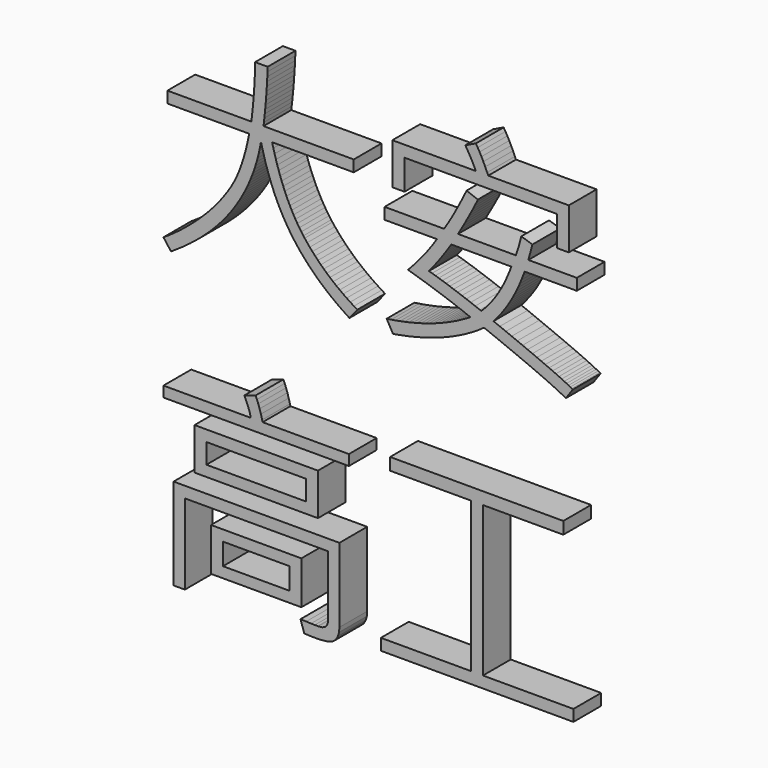
from build123d import *

# Parameters (mm, degrees)
F0_W     = 17.773762
F0_H     = 6.026569
F0_W_2   = 14.310217
F0_H_2   = 2.880515
F0_W_3   = 13.011387
F0_H_3   = 6.199747
F0_W_4   = 9.605567
F0_H_4   = 3.117191
F1_DEPTH = 5


with BuildPart() as f1:
    # F0 (on Front) → F1 (new body)
    with BuildSketch(Plane.XZ):
        Polygon((-17.412976, 25.716827), (-17.48802, 25.353155), (-17.632334, 24.660446), (-17.788194, 23.990827), (-17.949826, 23.344298), (-18.123003, 22.72086), (-18.301953, 22.11474), (-18.492448, 21.537482), (-18.688716, 20.983315), (-18.890756, 20.452238), (-19.110114, 19.938478), (-19.329472, 19.453582), (-19.560375, 18.986003), (-19.802823, 18.541515), (-20.051044, 18.125889), (-20.166495, 17.935394), (-20.478214, 17.456271), (-20.801479, 16.977147), (-21.142061, 16.498023), (-21.494188, 16.030444), (-21.863633, 15.562866), (-22.244623, 15.101059), (-22.637158, 14.645026), (-23.047011, 14.188992), (-23.468409, 13.738731), (-23.907125, 13.294243), (-24.357386, 12.855527), (-24.582516, 12.636169), (-25.03855, 12.214771), (-25.500356, 11.804918), (-25.962162, 11.400838), (-26.423968, 11.014075), (-26.891547, 10.633085), (-27.364898, 10.263641), (-27.838249, 9.905741), (-28.3116, 9.559386), (-28.790724, 9.218804), (-29.275621, 8.89554), (-29.760517, 8.578048), (-28.675273, 7.140677), (-28.455915, 7.279219), (-27.90752, 7.642891), (-27.364898, 8.006563), (-26.839593, 8.376008), (-26.325834, 8.751226), (-25.82362, 9.132216), (-25.332951, 9.518978), (-24.853827, 9.911513), (-24.380476, 10.304049), (-23.924442, 10.708129), (-23.479954, 11.117982), (-23.052783, 11.527835), (-22.631385, 11.949233), (-22.221532, 12.370631), (-21.823225, 12.803574), (-21.436462, 13.236517), (-21.061245, 13.675233), (-20.703345, 14.119721), (-20.351218, 14.569982), (-20.010636, 15.026016), (-19.687371, 15.487822), (-19.36988, 15.955401), (-19.069706, 16.428752), (-18.775304, 16.902103), (-18.498221, 17.387), (-18.22691, 17.871896), (-17.972916, 18.368338), (-17.724696, 18.864779), (-17.493793, 19.366993), (-17.274435, 19.880753), (-17.066622, 20.394512), (-16.864582, 20.914044), (-16.679859, 21.439348), (-16.506682, 21.970425), (-16.34505, 22.507275), (-16.194963, 23.049897), (-16.056421, 23.592519), (-15.929424, 24.146686), (-15.813973, 24.706626), (-15.710066, 25.266566), (-15.62925, 24.931757), (-15.467618, 24.291001), (-15.294441, 23.66179), (-15.121264, 23.044124), (-14.930769, 22.438004), (-14.734501, 21.843428), (-14.532461, 21.254626), (-14.318876, 20.677368), (-14.099518, 20.117428), (-13.874387, 19.563261), (-13.637712, 19.020639), (-13.395263, 18.489562), (-13.14127, 17.964257), (-12.881504, 17.456271), (-12.610193, 16.959829), (-12.333109, 16.46916), (-12.044481, 15.990036), (-11.750079, 15.522458), (-11.449905, 15.066424), (-11.138186, 14.621936), (-10.889965, 14.275581), (-10.549383, 13.819548), (-10.197256, 13.375059), (-9.833584, 12.936343), (-9.458366, 12.5034), (-9.071604, 12.07623), (-8.673296, 11.654831), (-8.263443, 11.233433), (-7.842045, 10.82358), (-7.409102, 10.4195), (-6.958841, 10.021192), (-6.502807, 9.628657), (-6.035229, 9.241895), (-5.556105, 8.860905), (-5.059663, 8.485687), (-4.557449, 8.116242), (-4.04369, 7.75257), (-3.512613, 7.400443), (-2.975763, 7.048316), (-1.844338, 8.474142), (-2.335007, 8.768543), (-2.860312, 9.109125), (-3.379844, 9.449707), (-3.882058, 9.801834), (-4.372727, 10.159734), (-4.857623, 10.523406), (-5.325202, 10.898624), (-5.787008, 11.279614), (-6.237269, 11.672149), (-6.670212, 12.070457), (-7.097383, 12.474537), (-7.513008, 12.890163), (-7.917089, 13.311561), (-8.309624, 13.738731), (-8.690614, 14.177447), (-9.060059, 14.621936), (-9.423731, 15.072197), (-9.608453, 15.320417), (-9.908627, 15.73027), (-10.197256, 16.151668), (-10.480112, 16.596157), (-10.757196, 17.046418), (-11.028507, 17.519769), (-11.294046, 18.004665), (-11.548039, 18.506879), (-11.802032, 19.020639), (-12.044481, 19.551716), (-12.281156, 20.10011), (-12.512059, 20.665823), (-12.73719, 21.243081), (-12.950775, 21.831883), (-13.16436, 22.443776), (-13.366401, 23.067215), (-13.562668, 23.707971), (-13.753163, 24.360272), (-13.937886, 25.029891), (-14.116835, 25.716827), (-2.358098, 25.716827), (-2.358098, 27.356239), (-15.352167, 27.356239), (-15.294441, 27.85268), (-15.230943, 28.41262), (-15.167444, 28.984105), (-15.109719, 29.561363), (-15.057765, 30.144393), (-15.005812, 30.733196), (-14.959632, 31.333544), (-14.913451, 31.939664), (-14.873043, 32.551557), (-14.838407, 33.174996), (-14.803772, 33.798434), (-14.774909, 34.433417), (-14.751819, 35.074173), (-16.564408, 35.074173), (-16.57018, 34.548869), (-16.587498, 33.960066), (-16.604816, 33.365491), (-16.633679, 32.770915), (-16.662542, 32.170567), (-16.697177, 31.575992), (-16.743358, 30.975644), (-16.789538, 30.375296), (-16.841491, 29.774948), (-16.899217, 29.168828), (-16.962715, 28.56848), (-17.031986, 27.962359), (-17.10703, 27.356239), (-29.189032, 27.356239), (-29.189032, 25.716827), align=None)
        Polygon((27.820931, -10.407955), (27.820931, -8.658864), (2.877629, -8.658864), (2.877629, -10.407955), (14.526688, -10.407955), (14.526688, -32.02048), (1.549936, -32.02048), (1.549936, -33.665664), (29.27562, -33.665664), (29.27562, -32.02048), (16.246915, -32.02048), (16.246915, -10.407955), align=None)
        Polygon((-16.298869, -7.602483), (-16.500909, -7.16954), (-18.111458, -7.683299), (-17.938281, -8.052744), (-17.655425, -8.699272), (-17.436067, -9.27653), (-17.28598, -9.784517), (-17.199391, -10.223232), (-29.760517, -10.223232), (-29.760517, -11.74142), (-3.056579, -11.74142), (-3.056579, -10.223232), (-15.479163, -10.223232), (-15.548434, -9.951921), (-15.727384, -9.27653), (-15.912107, -8.658864), (-16.108374, -8.098924), align=None)
        with Locations((-16.399889, -16.786651)):
            Rectangle(F0_W, F0_H)
        with Locations((-16.422979, -16.806855)):
            Rectangle(F0_W_2, F0_H_2, mode=Mode.SUBTRACT)
        Polygon((-26.677961, -23.517475), (-6.058319, -23.517475), (-6.058319, -32.332199), (-6.12759, -32.788233), (-6.381583, -33.180768), (-6.820299, -33.417444), (-7.455282, -33.492487), (-7.541871, -33.492487), (-7.957497, -33.486715), (-8.505891, -33.475169), (-9.1986, -33.446307), (-10.024079, -33.417444), (-9.481457, -35.056855), (-8.881109, -35.085718), (-8.280761, -35.103036), (-7.749684, -35.103036), (-6.947296, -35.079946), (-6.260359, -34.99913), (-5.711964, -34.860588), (-5.284794, -34.670093), (-4.990392, -34.421872), (-4.898031, -34.30642), (-4.632493, -33.827297), (-4.470861, -33.267357), (-4.418907, -32.626601), (-4.418907, -21.918472), (-28.305828, -21.918472), (-28.305828, -35.091491), (-26.677961, -35.091491), align=None)
        with Locations((-16.408548, -28.770519)):
            Rectangle(F0_W_3, F0_H_3)
        with Locations((-16.39123, -28.776292)):
            Rectangle(F0_W_4, F0_H_4, mode=Mode.SUBTRACT)
        Polygon((15.490708, 34.670093), (15.225169, 35.103036), (13.706982, 34.375691), (13.793571, 34.242922), (14.10529, 33.729163), (14.405464, 33.209631), (14.694092, 32.684327), (14.965404, 32.147477), (15.225169, 31.604855), (3.206666, 31.604855), (3.206666, 25.636011), (4.955756, 25.636011), (4.955756, 29.959671), (26.937727, 29.959671), (26.937727, 25.636011), (28.611774, 25.636011), (28.611774, 31.604855), (17.008896, 31.604855), (16.853036, 31.956982), (16.575952, 32.574648), (16.304641, 33.151905), (16.03333, 33.694527), (15.762019, 34.202514), align=None)
        Polygon((15.519571, 28.083583), (13.891704, 28.689704), (13.833979, 28.562707), (13.533805, 27.962359), (13.245176, 27.379329), (12.950774, 26.813617), (12.662146, 26.259449), (12.367744, 25.716827), (12.079115, 25.191523), (11.796259, 24.683536), (11.50763, 24.187094), (11.224774, 23.707971), (10.936145, 23.240392), (10.659062, 22.790131), (2.086786, 22.790131), (2.086786, 21.144947), (9.619998, 21.144947), (9.568045, 21.064131), (9.244781, 20.585007), (8.915744, 20.105883), (8.575162, 19.626759), (8.228807, 19.153408), (7.865135, 18.685829), (7.489917, 18.212478), (7.103155, 17.750672), (6.704847, 17.283093), (6.300767, 16.821287), (5.879369, 16.365254), (5.452198, 15.90922), (5.99482, 15.741815), (6.652894, 15.539775), (7.29365, 15.337735), (7.922861, 15.141467), (8.540526, 14.939427), (9.146647, 14.74316), (9.73545, 14.546892), (10.306935, 14.350625), (10.872647, 14.154357), (11.421042, 13.963862), (11.957891, 13.767594), (12.477423, 13.577099), (12.991183, 13.386604), (13.487624, 13.201882), (13.966748, 13.011387), (14.434327, 12.826664), (14.197651, 12.68235), (13.7243, 12.399494), (13.233631, 12.128183), (12.742962, 11.862644), (12.234975, 11.608651), (11.726988, 11.366203), (11.201684, 11.129527), (10.676379, 10.904397), (10.13953, 10.685039), (9.591135, 10.477226), (9.036968, 10.280958), (8.477028, 10.090463), (7.905543, 9.911513), (7.322513, 9.738336), (6.73371, 9.576704), (6.139135, 9.426617), (5.533014, 9.282303), (4.921121, 9.149533), (4.297683, 9.022537), (3.668472, 8.907085), (3.033489, 8.803179), (2.381187, 8.705045), (3.299027, 7.077178), (3.818559, 7.16954), (4.47086, 7.290764), (5.111616, 7.41776), (5.746599, 7.556302), (6.370038, 7.706389), (6.987703, 7.862249), (7.593824, 8.023881), (8.188399, 8.197058), (8.771429, 8.381781), (9.348687, 8.572276), (9.914399, 8.768543), (10.474339, 8.976356), (11.022734, 9.189941), (11.559584, 9.415072), (12.084888, 9.645975), (12.60442, 9.888423), (13.112407, 10.142416), (13.614621, 10.39641), (14.099517, 10.667721), (14.578641, 10.939032), (15.051992, 11.221888), (15.513798, 11.51629), (15.964059, 11.816464), (16.402775, 12.128183), (16.737584, 11.995413), (17.591926, 11.654831), (18.411632, 11.325795), (19.202475, 11.008303), (19.964455, 10.696584), (20.691799, 10.39641), (21.390281, 10.107781), (22.0599, 9.830697), (22.694883, 9.565159), (23.301004, 9.305393), (23.878261, 9.057172), (24.420883, 8.820497), (24.934643, 8.595366), (25.419539, 8.376008), (25.8698, 8.168195), (26.291198, 7.971928), (26.683733, 7.787205), (27.047406, 7.614028), (27.376442, 7.446623), (27.670844, 7.296536), (27.942155, 7.152222), (28.178831, 7.01368), (29.183259, 8.439506), (29.044717, 8.520323), (28.831132, 8.647319), (28.571366, 8.780088), (28.282737, 8.924403), (27.9537, 9.086035), (27.590028, 9.259212), (27.19172, 9.449707), (26.753004, 9.645975), (26.279653, 9.85956), (25.771666, 10.084691), (25.223272, 10.321366), (24.646014, 10.569587), (24.022576, 10.835126), (23.370275, 11.106437), (22.677565, 11.395066), (21.950221, 11.701012), (21.188241, 12.012731), (20.385853, 12.341768), (19.548829, 12.68235), (18.67717, 13.034477), (17.765103, 13.398149), (17.799738, 13.432785), (18.169183, 13.854183), (18.527083, 14.292899), (18.873438, 14.737387), (19.21402, 15.199193), (19.543057, 15.678317), (19.860548, 16.163213), (20.166495, 16.665428), (20.460896, 17.179187), (20.749525, 17.704491), (21.026609, 18.247113), (21.286375, 18.801281), (21.54614, 19.366993), (21.788589, 19.944251), (22.019492, 20.538826), (22.244622, 21.144947), (29.760516, 21.144947), (29.760516, 22.790131), (22.787244, 22.790131), (23.376047, 24.943302), (21.765498, 25.451289), (21.690455, 25.122252), (21.551913, 24.57963), (21.384508, 24.008145), (21.194013, 23.407797), (20.974655, 22.790131), (12.656373, 22.790131), (12.662146, 22.801676), (13.002728, 23.384706), (13.325992, 23.950419), (13.643484, 24.504586), (13.943658, 25.052981), (14.232286, 25.584058), (14.515143, 26.109362), (14.786454, 26.617349), (15.040447, 27.119563), (15.288668, 27.610232), align=None)
        Polygon((11.680808, 21.144947), (20.339672, 21.144947), (20.114542, 20.550371), (19.860548, 19.944251), (19.600782, 19.355448), (19.329471, 18.783963), (19.052388, 18.229796), (18.757986, 17.698719), (18.45204, 17.184959), (18.134548, 16.69429), (17.811284, 16.220939), (17.476474, 15.764906), (17.124347, 15.32619), (16.766447, 14.904792), (16.397002, 14.506484), (16.016012, 14.125494), (15.819745, 14.200538), (15.138581, 14.460303), (14.480507, 14.702752), (13.839751, 14.939427), (13.222086, 15.164558), (12.615965, 15.378143), (12.032935, 15.580183), (11.467222, 15.776451), (10.9246, 15.961173), (10.393523, 16.134351), (9.885536, 16.301755), (9.394868, 16.451842), (8.927289, 16.596157), (8.471255, 16.728926), (8.505891, 16.769334), (8.869563, 17.219595), (9.227463, 17.675628), (9.585363, 18.143207), (9.943262, 18.622331), (10.295389, 19.107227), (10.641744, 19.603669), (10.993871, 20.105883), (11.334453, 20.619642), align=None, mode=Mode.SUBTRACT)
    extrude(amount=-F1_DEPTH)


solid = f1.part
